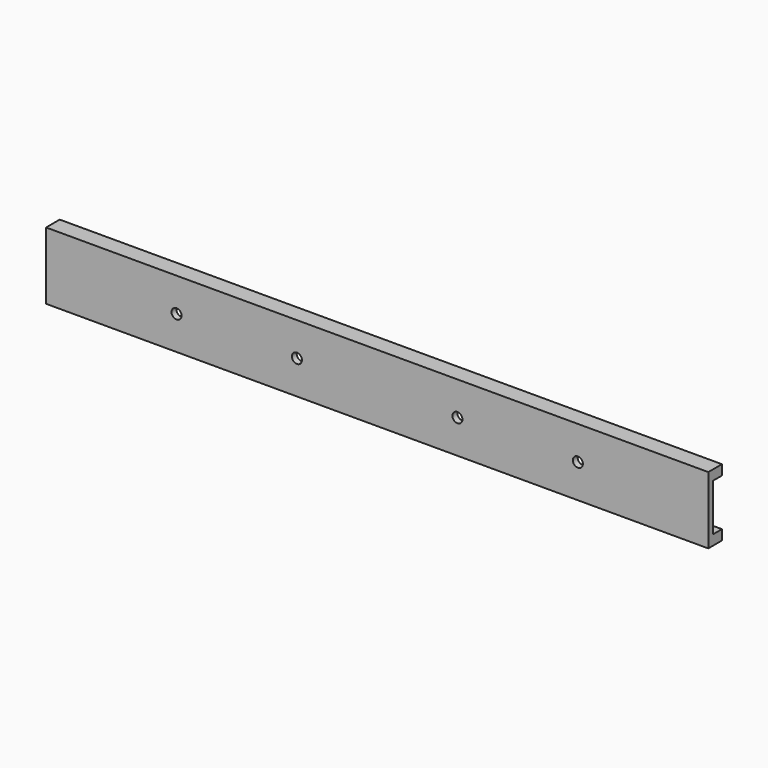
from build123d import *

# Parameters (mm, degrees)
SKETCH_W        = 330
SKETCH_H        = 8.5
PAD_DEPTH       = 33.5
SKETCH001_W     = 330
SKETCH001_H     = 23.5
POCKET_DEPTH    = 5.5
SKETCH002_R     = 2.5
POCKET001_DEPTH = 3.001


with BuildPart() as part:
    # Sketch → Pad (new body)
    with BuildSketch(Plane.XY):
        with Locations((165, 4.25)):
            Rectangle(SKETCH_W, SKETCH_H)
    extrude(amount=PAD_DEPTH)

    # Sketch001 (on Face3 of Pad) → Pocket (cut)
    with BuildSketch(Plane(origin=(0, 8.5, 0), x_dir=(-1, 0, 0), z_dir=(0, 1, 0))):
        with Locations((-165, 16.75)):
            Rectangle(SKETCH001_W, SKETCH001_H)
    extrude(amount=-POCKET_DEPTH, mode=Mode.SUBTRACT)

    # Sketch002 (on Face8 of Pocket) → Pocket001 (cut, through all)
    with BuildSketch(Plane(origin=(0, 3, 0), x_dir=(-1, 0, 0), z_dir=(0, 1, 0))):
        with Locations((-265, 16.75)):
            Circle(SKETCH002_R)
        with Locations((-205, 16.75)):
            Circle(SKETCH002_R)
        with Locations((-125, 16.75)):
            Circle(SKETCH002_R)
        with Locations((-65, 16.75)):
            Circle(SKETCH002_R)
    extrude(amount=-POCKET001_DEPTH, mode=Mode.SUBTRACT)


solid = part.part
